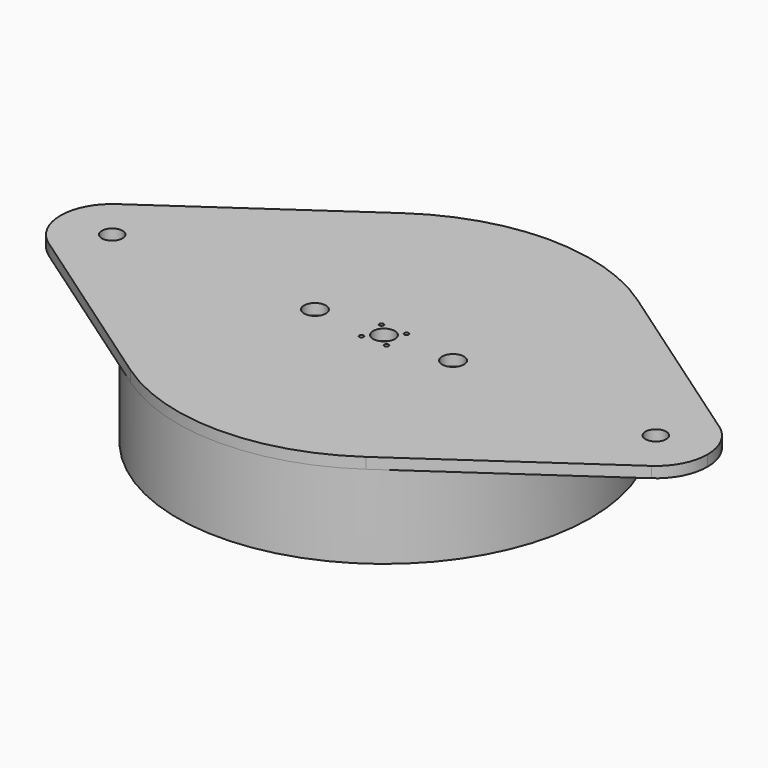
from build123d import *

# Parameters (mm, degrees)
F0_R     = 5
F0_R_2   = 4.7625
F1_DEPTH = 5
F2_R     = 95
F2_R_2   = 92.5
F3_DEPTH = 38.23
F6_D     = 1.9939
F6_DEPTH = 13.58625
F6_TIP   = 0.5990279941
F7_D     = 10.0838
F7_DEPTH = 13.59
F7_TIP   = 3.0294791551


with BuildPart() as f1:
    # F0 (on Top) → F1 (new body)
    with BuildSketch(Plane.XY):
        with BuildLine():
            ThreePointArc((54.15, -78.0562457463), (84.1702144467, -44.0496878536), (95, 0))
            ThreePointArc((95, 0), (84.1702144467, 44.0496878536), (54.15, 78.0562457463))
            ThreePointArc((54.15, 78.0562457463), (0, 95), (-54.15, 78.0562457463))
            ThreePointArc((-54.15, 78.0562457463), (-95, 0), (-54.15, -78.0562457463))
            ThreePointArc((-54.15, -78.0562457463), (0, -95), (54.15, -78.0562457463))
        make_face()
        Circle(F0_R, mode=Mode.SUBTRACT)
        with BuildLine():
            ThreePointArc((54.15, 78.0562457463), (84.1702144467, 44.0496878536), (95, 0))
            ThreePointArc((95, 0), (84.1702144467, -44.0496878536), (54.15, -78.0562457463))
            Line((54.15, -78.0562457463), (138.5375, -19.5140614366))
            ThreePointArc((138.5375, -19.5140614366), (101.25, 0), (138.5375, 19.5140614366))
            Line((138.5375, 19.5140614366), (54.15, 78.0562457463))
        make_face()
        with BuildLine():
            ThreePointArc((-54.15, -78.0562457463), (-95, 0), (-54.15, 78.0562457463))
            Line((-54.15, 78.0562457463), (-138.5375, 19.5140614366))
            ThreePointArc((-138.5375, 19.5140614366), (-113.9875780366, 21.0425536117), (-101.25, 0))
            ThreePointArc((-101.25, 0), (-113.9875780366, -21.0425536117), (-138.5375, -19.5140614366))
            Line((-138.5375, -19.5140614366), (-54.15, -78.0562457463))
        make_face()
        with BuildLine():
            ThreePointArc((148.75, 0), (146.0425536117, 11.0124219634), (138.5375, 19.5140614366))
            ThreePointArc((138.5375, 19.5140614366), (101.25, 0), (138.5375, -19.5140614366))
            ThreePointArc((138.5375, -19.5140614366), (146.0425536117, -11.0124219634), (148.75, 0))
        make_face()
        with Locations((125, 0)):
            Circle(F0_R_2, mode=Mode.SUBTRACT)
        with BuildLine():
            ThreePointArc((-101.25, 0), (-113.9875780366, 21.0425536117), (-138.5375, 19.5140614366))
            ThreePointArc((-138.5375, 19.5140614366), (-148.75, 0), (-138.5375, -19.5140614366))
            ThreePointArc((-138.5375, -19.5140614366), (-113.9875780366, -21.0425536117), (-101.25, 0))
        make_face()
        with Locations((-125, 0)):
            Circle(F0_R_2, mode=Mode.SUBTRACT)
    extrude(amount=F1_DEPTH)

    # F2 (on face) → F3 (join)
    with BuildSketch(Plane(origin=(0, 0, 0), x_dir=(1, 0, 0), z_dir=(0, 0, -1))):
        Circle(F2_R)
        Circle(F2_R_2, mode=Mode.SUBTRACT)
    extrude(amount=F3_DEPTH)

    # F6
    with Locations(Plane.XY.offset(5)):
        with Locations((-5.75, 5.75), (5.75, 5.75), (5.75, -5.75), (-5.75, -5.75)):
            Hole(F6_D / 2, depth=F6_DEPTH)
            with Locations((0, 0, -(F6_DEPTH + F6_TIP / 2))):  # 118° drill point
                Cone(0, F6_D / 2, F6_TIP, mode=Mode.SUBTRACT)

    # F7
    with Locations(Plane.XY.offset(5)):
        with Locations((-31.75, 0), (31.75, 0)):
            Hole(F7_D / 2, depth=F7_DEPTH)
            with Locations((0, 0, -(F7_DEPTH + F7_TIP / 2))):  # 118° drill point
                Cone(0, F7_D / 2, F7_TIP, mode=Mode.SUBTRACT)


solid = f1.part
